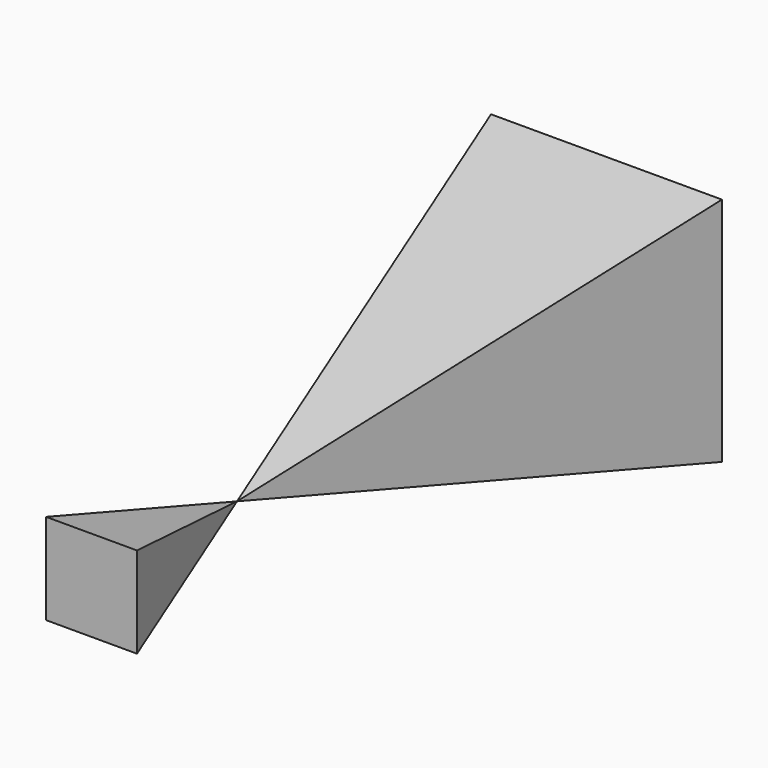
from build123d import *

# Parameters (mm, degrees)
F2_W = 10
F2_H = 10
F6_W = 25.4
F6_H = 25.4


with BuildPart() as f7:
    # F2 (on offset) → F7 section 0
    with BuildSketch(Plane.XZ.offset(20), mode=Mode.PRIVATE) as f7_s0:
        Rectangle(F2_W, F2_H)
    loft([f7_s0.sketch, Vertex(0, 0, 0)])


with BuildPart() as f8:
    # F6 (on offset) → F8 section 0
    with BuildSketch(Plane.XZ.offset(-50.8), mode=Mode.PRIVATE) as f8_s0:
        Rectangle(F6_W, F6_H)
    loft([Vertex(0, 0, 0), f8_s0.sketch])


solid = Compound([f7.part, f8.part])
